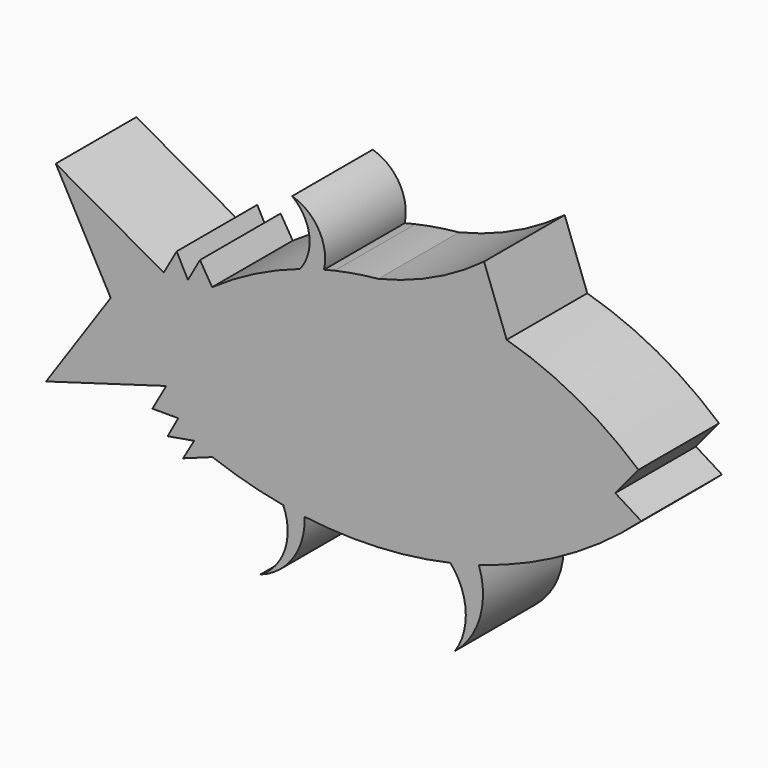
from build123d import *

# Parameters (mm, degrees)
F0_R     = 2.7728075116
F1_DEPTH = 25.4


with BuildPart() as f1:
    # F0 (on Front) → F1 (new body)
    with BuildSketch(Plane.XZ):
        with BuildLine():
            Line((-46.2063811719, 22.3736166954), (-73.4438300133, 37.6946814358))
            Line((-73.4438300133, 37.6946814358), (-59.5819167793, 12.4027663842))
            Line((-59.5819167793, 12.4027663842), (-75.8757442236, -11.4300008863))
            Line((-75.8757442236, -11.4300008863), (-45.6002619536, -2.5907051222))
            ThreePointArc((-45.6002619536, -2.5907051222), (-44.4025685397, -5.830070686), (-42.5679523522, -8.7561845276))
            ThreePointArc((-42.5679523522, -8.7561845276), (-40.7090131833, -10.7730955419), (-38.5467331667, -12.4607359072))
            ThreePointArc((-38.5467331667, -12.4607359072), (-37.5331692858, -13.0762341628), (-36.4787243307, -13.6187244207))
            ThreePointArc((-36.4787243307, -13.6187244207), (-35.218191008, -14.1097204461), (-33.9515178698, -14.5846525628))
            ThreePointArc((-33.9515178698, -14.5846525628), (-25.1236949217, -17.4009018565), (-16.0843420418, -19.4385027989))
            ThreePointArc((-16.0843420418, -19.4385027989), (-13.3899281297, -19.8880494602), (-10.6848629515, -20.2682874284))
            ThreePointArc((-10.6848629515, -20.2682874284), (7.7554033628, -21.0061419822), (26.0458368353, -18.5468952528))
            ThreePointArc((26.0458368353, -18.5468952528), (29.6524190677, -17.6722711402), (33.2263105994, -16.6724201227))
            ThreePointArc((33.2263105994, -16.6724201227), (54.9868951593, -7.4326700378), (74.1704591011, 6.3835123767))
            Line((74.1704591011, 6.3835123767), (67.6072314382, 10.4572335258))
            Line((67.6072314382, 10.4572335258), (73.4438300133, 17.5097864121))
            ThreePointArc((73.4438300133, 17.5097864121), (57.8267715443, 28.3623597624), (40.2292326492, 35.5732881621))
            ThreePointArc((40.2292326492, 35.5732881621), (24.2028822223, 38.5907293118), (7.8949533391, 38.5729912726))
            ThreePointArc((7.8949533391, 38.5729912726), (2.4157752889, 37.4790688574), (-3.1311035908, 36.8081045884))
            ThreePointArc((-3.1311035908, 36.8081045884), (-4.4740862067, 36.4927174845), (-5.8119143408, 36.1561358224))
            ThreePointArc((-5.8119143408, 36.1561358224), (-8.868524213, 35.3017374622), (-11.8920366653, 34.3367333588))
            ThreePointArc((-11.8920366653, 34.3367333588), (-23.3557486049, 29.5105094754), (-34.0166780636, 23.1031924486))
            Line((-34.0166780636, 23.1031924486), (-40.1115296178, 22.738404572))
            Line((-40.1115296178, 22.738404572), (-46.2063811719, 22.3736166954))
        make_face()
        with Locations((53.9885126054, 20.9144670516)):
            Circle(F0_R, mode=Mode.SUBTRACT)
        with BuildLine():
            ThreePointArc((34.5331951976, 51.0702133179), (21.8513167895, 43.4632987988), (7.8949533391, 38.5729912726))
            ThreePointArc((7.8949533391, 38.5729912726), (24.2028822223, 38.5907293118), (40.2292326492, 35.5732881621))
            Line((40.2292326492, 35.5732881621), (34.5331951976, 51.0702133179))
        make_face()
        with BuildLine():
            ThreePointArc((33.2263105994, -16.6724201227), (29.6524190677, -17.6722711402), (26.0458368353, -18.5468952528))
            ThreePointArc((26.0458368353, -18.5468952528), (29.9013197265, -27.9179314628), (27.237445116, -37.6946814358))
            ThreePointArc((27.237445116, -37.6946814358), (33.5352416657, -28.1246199246), (33.2263105994, -16.6724201227))
        make_face()
        with BuildLine():
            ThreePointArc((-10.6848629515, -20.2682874284), (-13.3899281297, -19.8880494602), (-16.0843420418, -19.4385027989))
            ThreePointArc((-16.0843420418, -19.4385027989), (-15.675284706, -29.1917075818), (-21.8872334808, -36.7219150066))
            ThreePointArc((-21.8872334808, -36.7219150066), (-13.5872618812, -30.3325564753), (-10.6848629515, -20.2682874284))
        make_face()
        with BuildLine():
            ThreePointArc((-13.8619150966, 49.8542524874), (-9.5317359626, 42.5201559061), (-11.8920366653, 34.3367333588))
            ThreePointArc((-11.8920366653, 34.3367333588), (-8.868524213, 35.3017374622), (-5.8119143408, 36.1561358224))
            ThreePointArc((-5.8119143408, 36.1561358224), (-7.128420184, 44.5969007804), (-13.8619150966, 49.8542524874))
        make_face()
        with Locations((53.9885126054, 20.9144670516)):
            Circle(F0_R)
        with BuildLine():
            ThreePointArc((-42.5679523522, -8.7561845276), (-44.4025685397, -5.830070686), (-45.6002619536, -2.5907051222))
            Line((-45.6002619536, -2.5907051222), (-49.0683440665, -8.7561845276))
            Line((-49.0683440665, -8.7561845276), (-42.5679523522, -8.7561845276))
        make_face()
        Polygon((-42.965512128, 28.13516175), (-46.2063811719, 22.3736166954), (-40.1115296178, 22.738404572), align=None)
        Polygon((-37.0758537513, 28.13516175), (-40.1115296178, 22.738404572), (-34.0166780636, 23.1031924486), align=None)
        with BuildLine():
            ThreePointArc((-38.5467331667, -12.4607359072), (-40.7090131833, -10.7730955419), (-42.5679523522, -8.7561845276))
            Line((-42.5679523522, -8.7561845276), (-45.233618468, -13.6187234893))
            Line((-45.233618468, -13.6187234893), (-38.5467331667, -12.4607359072))
        make_face()
        with BuildLine():
            ThreePointArc((-36.4787243307, -13.6187244207), (-37.5331692858, -13.0762341628), (-38.5467331667, -12.4607359072))
            Line((-38.5467331667, -12.4607359072), (-41.3425527513, -17.2665957361))
            Line((-41.3425527513, -17.2665957361), (-33.9515178698, -14.5846525628))
            ThreePointArc((-33.9515178698, -14.5846525628), (-35.218191008, -14.1097204461), (-36.4787243307, -13.6187244207))
        make_face()
        with BuildLine():
            ThreePointArc((7.8949533391, 38.5729912726), (2.3536609221, 37.8671258081), (-3.1311035908, 36.8081045884))
            ThreePointArc((-3.1311035908, 36.8081045884), (2.4157752889, 37.4790688574), (7.8949533391, 38.5729912726))
        make_face()
    extrude(amount=F1_DEPTH)


solid = f1.part
